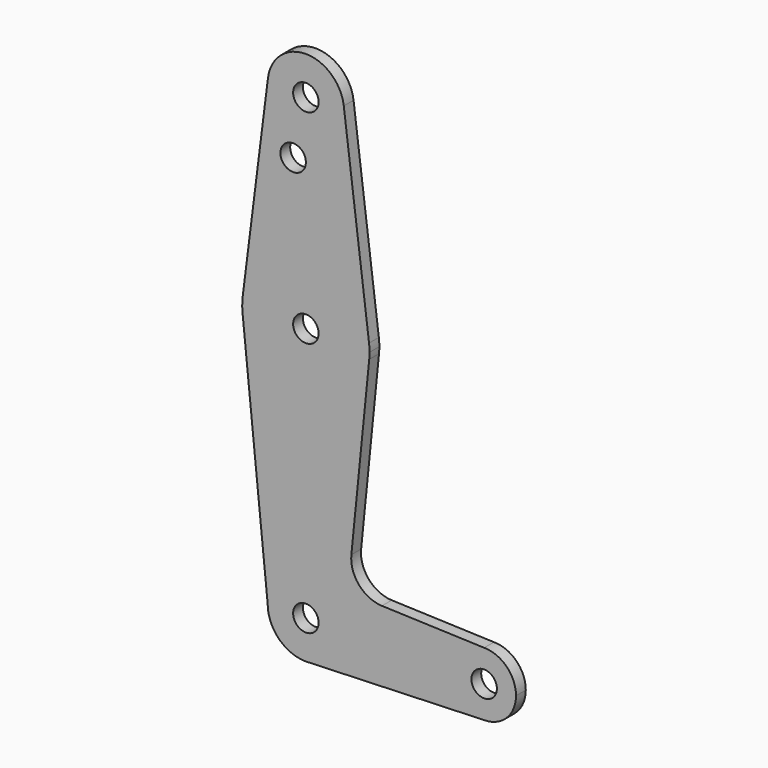
from build123d import *

# Parameters (mm, degrees)
F0_R     = 3.175
F1_DEPTH = 3.048


with BuildPart() as f1:
    # F0 (on Front) → F1 (new body)
    with BuildSketch(Plane.XZ):
        with BuildLine():
            ThreePointArc((0.67949, -73.000732), (6.97129, -69.990511), (9.525, -63.5))
            ThreePointArc((9.525, -63.5), (0, -53.975), (-9.525, -63.5))
            ThreePointArc((-9.525, -63.5), (-6.735192, -70.235192), (0, -73.025))
            Line((0, -73.025), (0.67949, -73.000732))
        make_face()
        with Locations((0, -63.5)):
            Circle(F0_R, mode=Mode.SUBTRACT)
        with BuildLine():
            ThreePointArc((-9.525, -63.5), (0, -53.975), (9.525, -63.5))
            ThreePointArc((9.525, -63.5), (6.97129, -69.990511), (0.67949, -73.000732))
            Line((0.67949, -73.000732), (44.45, -71.4375))
            ThreePointArc((44.45, -71.4375), (36.5125, -63.5), (44.45, -55.5625))
            Line((44.45, -55.5625), (18.966474, -54.648866))
            ThreePointArc((18.966474, -54.648866), (13.260686, -51.930429), (11.340972, -45.90875))
            Line((11.340972, -45.90875), (15.795426, -1.5875))
            ThreePointArc((15.795426, -1.5875), (0.00609, -15.874999), (-15.794203, -1.59962))
            Line((-15.794203, -1.59962), (-9.525, -63.5))
        make_face()
        with BuildLine():
            ThreePointArc((0, -73.025), (0.339962, -73.018931), (0.67949, -73.000732))
            Line((0.67949, -73.000732), (0, -73.025))
        make_face()
        with BuildLine():
            ThreePointArc((-15.750488, 1.984375), (-15.873819, 0.193615), (-15.794203, -1.59962))
            ThreePointArc((-15.794203, -1.59962), (0.00609, -15.874999), (15.795426, -1.5875))
            ThreePointArc((15.795426, -1.5875), (15.855094, -0.794747), (15.875, 0))
            ThreePointArc((15.875, 0), (15.843841, 0.994139), (15.750488, 1.984375))
            ThreePointArc((15.750488, 1.984375), (0, 15.875), (-15.750488, 1.984375))
        make_face()
        Circle(F0_R, mode=Mode.SUBTRACT)
        with BuildLine():
            ThreePointArc((44.45, -55.5625), (36.5125, -63.5), (44.45, -71.4375))
            ThreePointArc((44.45, -71.4375), (50.06266, -69.11266), (52.3875, -63.5))
            ThreePointArc((52.3875, -63.5), (50.06266, -57.88734), (44.45, -55.5625))
        make_face()
        with Locations((44.45, -63.5)):
            Circle(F0_R, mode=Mode.SUBTRACT)
        with BuildLine():
            Line((-9.450293, 51.990625), (-15.750488, 1.984375))
            ThreePointArc((-15.750488, 1.984375), (0, 15.875), (15.750488, 1.984375))
            Line((15.750488, 1.984375), (9.450293, 51.990625))
            ThreePointArc((9.450293, 51.990625), (9.506305, 51.396483), (9.525, 50.8))
            ThreePointArc((9.525, 50.8), (-0.596483, 41.293695), (-9.450293, 51.990625))
        make_face()
        with Locations((-3.175, 36.5252)):
            Circle(F0_R, mode=Mode.SUBTRACT)
        with BuildLine():
            ThreePointArc((9.450293, 51.990625), (0, 60.325), (-9.450293, 51.990625))
            ThreePointArc((-9.450293, 51.990625), (-0.596483, 41.293695), (9.525, 50.8))
            ThreePointArc((9.525, 50.8), (9.506305, 51.396483), (9.450293, 51.990625))
        make_face()
        with Locations((0, 50.8)):
            Circle(F0_R, mode=Mode.SUBTRACT)
    extrude(amount=F1_DEPTH)


solid = f1.part
